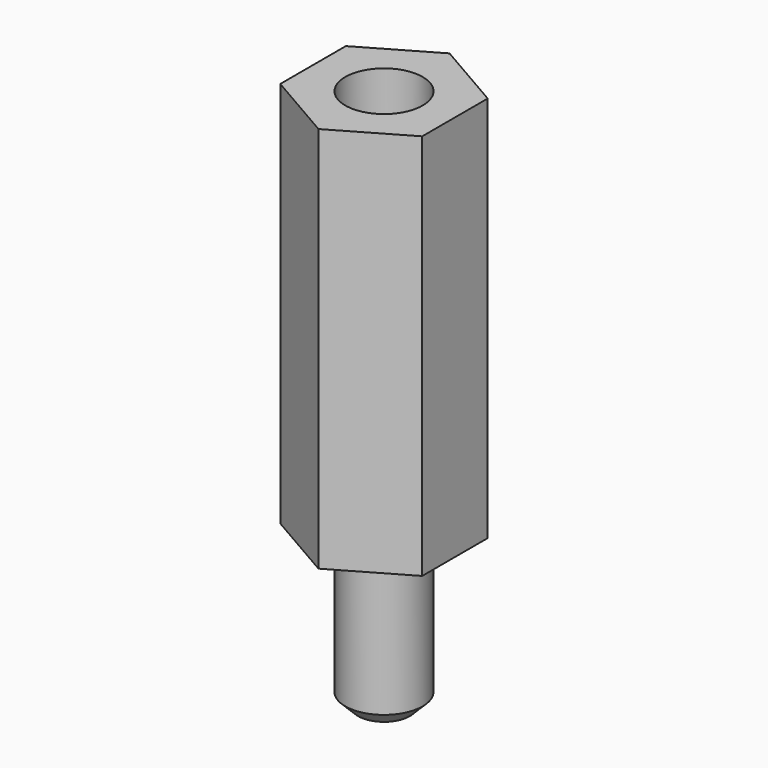
from build123d import *

# Parameters (mm, degrees)
PAD012_DEPTH    = 15
SKETCH029_R     = 1.5
PAD011_DEPTH    = 6
SKETCH028_R     = 1.5
POCKET011_DEPTH = 8.5
CHAMFER009_SIZE = 1.5
CHAMFER010_SIZE = 0.5


with BuildPart() as part:
    # Sketch027 → Pad012 (new body)
    with BuildSketch(Plane.XY):
        Polygon((-2.75, -1.587713), (-2.75, 1.587713), (0, 3.175426), (2.75, 1.587713), (2.75, -1.587713), (0, -3.175426), align=None)
    extrude(amount=PAD012_DEPTH)

    # Sketch029 (on Face7 of Pad012) → Pad011 (new body)
    with BuildSketch(Plane(origin=(0, 0, 0), x_dir=(1, 0, 0), z_dir=(0, 0, -1))):
        Circle(SKETCH029_R)
    extrude(amount=PAD011_DEPTH)

    # Sketch028 (on Face5 of Pad011) → Pocket011 (cut)
    with BuildSketch(Plane.XY.offset(15)):
        Circle(SKETCH028_R)
    extrude(amount=-POCKET011_DEPTH, mode=Mode.SUBTRACT)

    # Chamfer009
    chamfer009_edges = [part.edges().sort_by_distance(p)[0] for p in [
        (-1.5, 0, 6.5),
    ]]
    chamfer(chamfer009_edges, length=CHAMFER009_SIZE)

    # Chamfer010
    chamfer010_edges = [part.edges().sort_by_distance(p)[0] for p in [
        (-1.5, 0, -6),
    ]]
    chamfer(chamfer010_edges, length=CHAMFER010_SIZE)


solid = part.part
